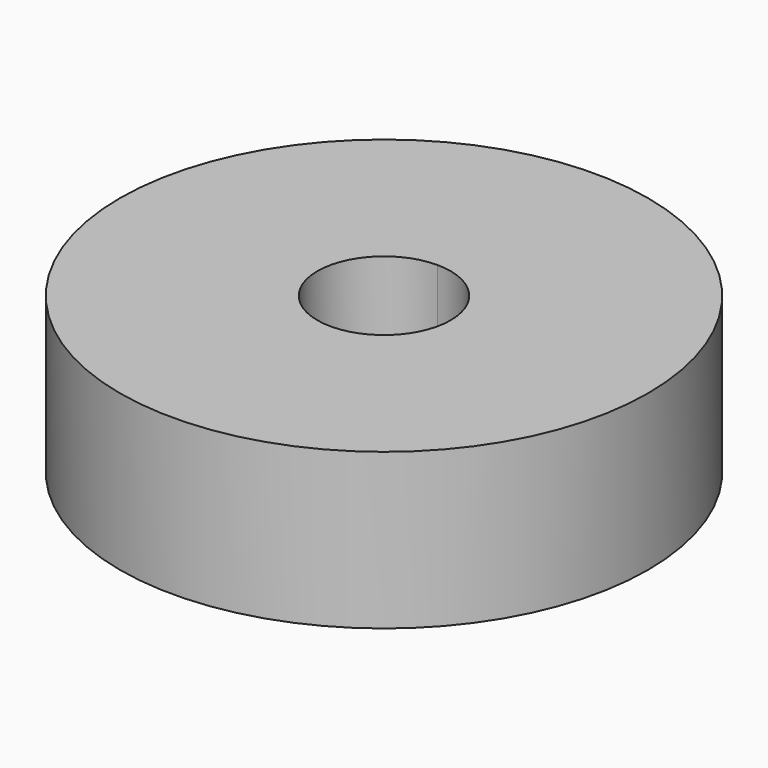
from build123d import *

# Parameters (mm, degrees)
F0_R     = 43.142214
F1_DEPTH = 25.4


with BuildPart() as f1:
    # F0 (on Top) → F1 (new body)
    with BuildSketch(Plane.XY):
        Circle(F0_R)
        with BuildLine():
            ThreePointArc((0, 10.881119), (7.694113, 7.694113), (10.881119, 0))
            ThreePointArc((10.881119, 0), (9.97175, -4.354648), (7.39564, -7.981433))
            ThreePointArc((7.39564, -7.981433), (-0.414218, -10.873232), (-7.981433, -7.39564))
            ThreePointArc((-7.981433, -7.39564), (-9.97175, 4.354648), (0, 10.881119))
        make_face(mode=Mode.SUBTRACT)
    extrude(amount=F1_DEPTH)


solid = f1.part
